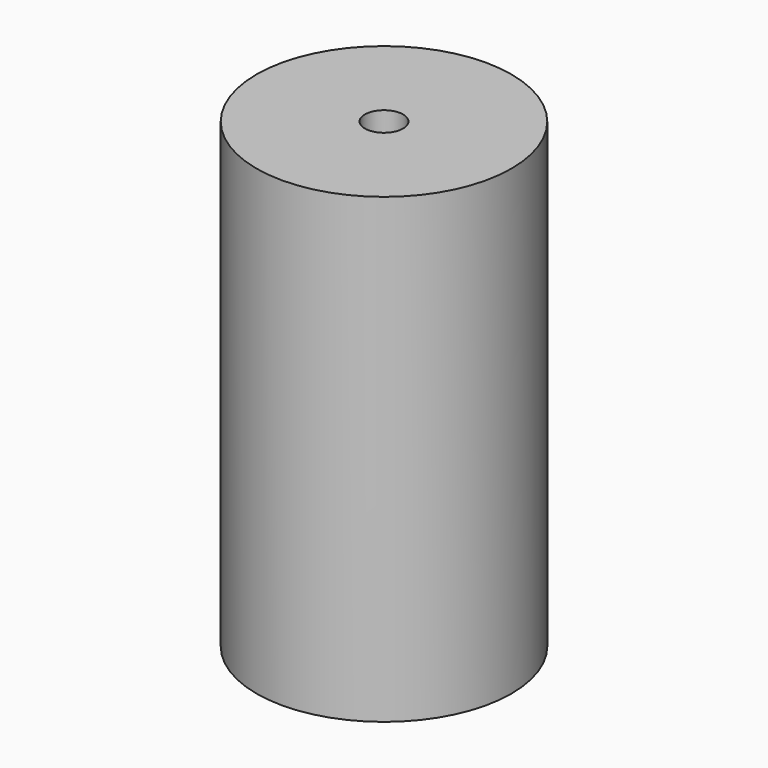
from build123d import *

# Parameters (mm, degrees)
SKETCH_R     = 8
PAD_DEPTH    = 29
SKETCH001_R  = 1.2
POCKET_DEPTH = 31


with BuildPart() as part:
    # Sketch → Pad (new body)
    with BuildSketch(Plane.XY):
        Circle(SKETCH_R)
    extrude(amount=PAD_DEPTH)

    # Sketch001 (on Face3 of Pad) → Pocket (cut)
    with BuildSketch(Plane.XY.offset(29)):
        Circle(SKETCH001_R)
    extrude(amount=-POCKET_DEPTH, mode=Mode.SUBTRACT)


solid = part.part
